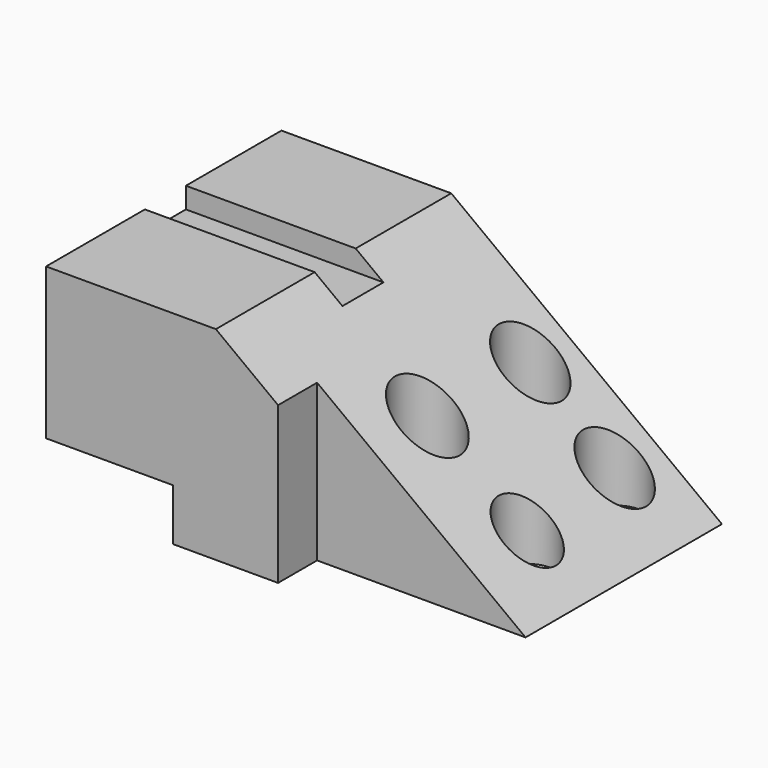
from build123d import *

# Parameters (mm, degrees)
F0_R     = 6.0638349588
F0_R_2   = 5.3684107219
F0_R_3   = 5.8892395432
F1_DEPTH = 38.1
F2_W     = 23.8111317158
F2_H     = 9.7214011475
F3_DEPTH = 55.1676675677
F4_W     = 9.6149358433
F4_H     = 3.907698667
F5_DEPTH = 82.5948805938


with BuildPart() as f1:
    # F0 (on Top) → F1 (new body)
    with BuildSketch(Plane.XY):
        Polygon((33.8834859431, 24.6326997876), (-48.7103946507, 24.6326997876), (-48.7103946507, -30.5349677801), (-5.2067479119, -30.5349677801), (-5.2067479119, -21.3928986341), (33.8834859431, -21.3928986341), align=None)
        with Locations((4.881054163, -8.1526581198)):
            Circle(F0_R, mode=Mode.SUBTRACT)
        with Locations((22.8499509394, -7.206926588)):
            Circle(F0_R_2, mode=Mode.SUBTRACT)
        with Locations((5.5115413852, 15.1753844693)):
            Circle(F0_R_3, mode=Mode.SUBTRACT)
        with Locations((21.5889755636, 14.860141091)):
            Circle(F0_R_3, mode=Mode.SUBTRACT)
    extrude(amount=F1_DEPTH)

    # F2 (on face) → F3 (cut, through all)
    with BuildSketch(Plane(origin=(0, 24.6326997876, 0), x_dir=(-1, 0, 0), z_dir=(0, 1, 0))):
        Polygon((-33.8834859431, 0), (16.8716572225, 38.1), (-33.8834859431, 38.1), align=None)
        with Locations((36.8048287928, 4.8607005738)):
            Rectangle(F2_W, F2_H)
    extrude(amount=-F3_DEPTH, mode=Mode.SUBTRACT)

    # F4 (on face) → F5 (cut, through all)
    with BuildSketch(Plane(origin=(-48.7103946507, 0, 0), x_dir=(0, -1, 0), z_dir=(-1, 0, 0))):
        with Locations((2.5730371708, 36.1461506665)):
            Rectangle(F4_W, F4_H)
    extrude(amount=-F5_DEPTH, mode=Mode.SUBTRACT)


solid = f1.part
